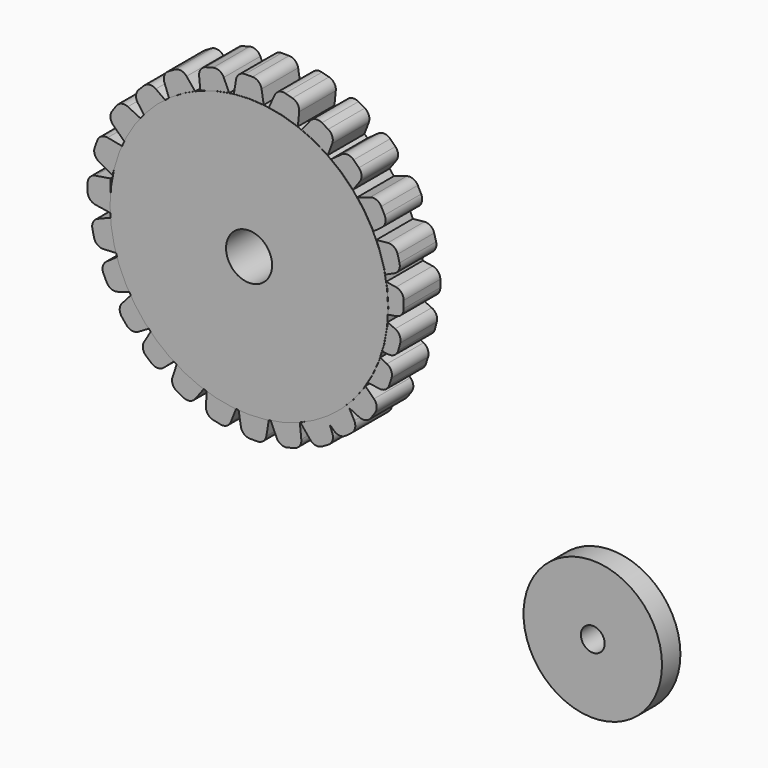
from build123d import *

# Parameters (mm, degrees)
F0_R     = 38.3604267789
F0_R_2   = 6.3570704089
F1_DEPTH = 12.7
F2_R     = 19.1056458935
F2_R_2   = 3.2777236614
F3_DEPTH = 6.35
F5_DEPTH = 12.6238
F6_DEPTH = 12.446


with BuildPart() as f1:
    # F0 (on Front) → F1 (new body)
    with BuildSketch(Plane.XZ):
        with Locations((-43.6920970678, 42.401611805)):
            Circle(F0_R)
        with Locations((-43.6920970678, 42.401611805)):
            Circle(F0_R_2, mode=Mode.SUBTRACT)
    extrude(amount=F1_DEPTH)


with BuildPart() as f3:
    # F2 (on Front) → F3 (new body)
    with BuildSketch(Plane.XZ):
        with Locations((46.0610873997, -23.9215176553)):
            Circle(F2_R)
        with Locations((46.0610873997, -23.9215176553)):
            Circle(F2_R_2, mode=Mode.SUBTRACT)
    extrude(amount=F3_DEPTH)


with BuildPart() as f5:
    # F4 (on Front) → F5 (new body)
    with BuildSketch(Plane.XZ):
        with BuildLine():
            Line((-42.8147938453, 86.3325670362), (-44.8419020928, 86.3325670362))
            ThreePointArc((-44.8419020928, 86.3325670362), (-46.4880102302, 85.726973405), (-47.3491793093, 84.1989670362))
            Line((-47.3491793093, 84.1989670362), (-48.0193479691, 80.0643739951))
            Line((-48.0193479691, 80.0643739951), (-39.6373479691, 80.0643739951))
            Line((-39.6373479691, 80.0643739951), (-40.3075166289, 84.1989670362))
            ThreePointArc((-40.3075166289, 84.1989670362), (-41.1686857079, 85.726973405), (-42.8147938453, 86.3325670362))
        make_face()
    extrude(amount=F5_DEPTH)


with BuildPart() as f5b:
    # F4 (on Front) → F5, piece 2 (new body)
    with BuildSketch(Plane.XZ):
        with BuildLine():
            Line((-31.7910018453, 84.7490246003), (-33.7490380543, 85.2736788212))
            ThreePointArc((-33.7490380543, 85.2736788212), (-35.4957955824, 85.1147644289), (-36.723098186, 83.8617105732))
            Line((-36.723098186, 83.8617105732), (-38.4405428252, 80.0414527862))
            Line((-38.4405428252, 80.0414527862), (-30.3441525493, 77.8720315502))
            Line((-30.3441525493, 77.8720315502), (-29.921374343, 82.0391941623))
            ThreePointArc((-29.921374343, 82.0391941623), (-30.3577226479, 83.7380219355), (-31.7910018453, 84.7490246003))
        make_face()
    extrude(amount=F5_DEPTH)


with BuildPart() as f5c:
    # F4 (on Front) → F5, piece 3 (new body)
    with BuildSketch(Plane.XZ):
        with BuildLine():
            Line((-21.9166371295, 80.3972644907), (-23.6721643681, 81.4108186144))
            ThreePointArc((-23.6721643681, 81.4108186144), (-25.400532648, 81.7094132142), (-26.9103301318, 80.8167054211))
            Line((-26.9103301318, 80.8167054211), (-29.5580097366, 77.5711271432))
            Line((-29.5580097366, 77.5711271432), (-22.2989848021, 73.3801271432))
            Line((-22.2989848021, 73.3801271432), (-20.8120713657, 77.2958740809))
            ThreePointArc((-20.8120713657, 77.2958740809), (-20.7938624807, 79.049750953), (-21.9166371295, 80.3972644907))
        make_face()
    extrude(amount=F5_DEPTH)


with BuildPart() as f5d:
    # F4 (on Front) → F5, piece 4 (new body)
    with BuildSketch(Plane.XZ):
        with BuildLine():
            Line((-13.4721116703, 73.8008318078), (-14.9054936583, 75.2342137958))
            ThreePointArc((-14.9054936583, 75.2342137958), (-16.497687248, 75.9699686591), (-18.1870894087, 75.4984434895))
            Line((-18.1870894087, 75.4984434895), (-21.5845689894, 73.0487255166))
            Line((-21.5845689894, 73.0487255166), (-15.6575999495, 67.1217564767))
            Line((-15.6575999495, 67.1217564767), (-13.2078819766, 70.5192360574))
            ThreePointArc((-13.2078819766, 70.5192360574), (-12.736356807, 72.208638218), (-13.4721116703, 73.8008318078))
        make_face()
    extrude(amount=F5_DEPTH)


with BuildPart() as f5e:
    # F4 (on Front) → F5, piece 5 (new body)
    with BuildSketch(Plane.XZ):
        with BuildLine():
            Line((-2.246415294, 54.3265875846), (-2.771069515, 56.2846237935))
            ThreePointArc((-2.771069515, 56.2846237935), (-3.7820721798, 57.717902991), (-5.4808999529, 58.1542512959))
            Line((-5.4808999529, 58.1542512959), (-9.648062565, 57.7314730896))
            Line((-9.648062565, 57.7314730896), (-7.478641329, 49.6350828137))
            Line((-7.478641329, 49.6350828137), (-3.658383542, 51.3525274529))
            ThreePointArc((-3.658383542, 51.3525274529), (-2.4053296863, 52.5798300565), (-2.246415294, 54.3265875846))
        make_face()
    extrude(amount=F5_DEPTH)


with BuildPart() as f5f:
    # F4 (on Front) → F5, piece 6 (new body)
    with BuildSketch(Plane.XZ):
        with BuildLine():
            Line((-1.0779677422, 43.5992568396), (-1.0779677422, 45.6263650871))
            ThreePointArc((-1.0779677422, 45.6263650871), (-1.6835613733, 47.2724732245), (-3.2115677422, 48.1336423036))
            Line((-3.2115677422, 48.1336423036), (-7.3461607833, 48.8038109634))
            Line((-7.3461607833, 48.8038109634), (-7.3461607833, 40.4218109634))
            Line((-7.3461607833, 40.4218109634), (-3.2115677422, 41.0919796232))
            ThreePointArc((-3.2115677422, 41.0919796232), (-1.6835613733, 41.9531487022), (-1.0779677422, 43.5992568396))
        make_face()
    extrude(amount=F5_DEPTH)


with BuildPart() as f5g:
    # F4 (on Front) → F5, piece 7 (new body)
    with BuildSketch(Plane.XZ):
        with BuildLine():
            Line((-2.5683832903, 32.9878669276), (-2.0437290694, 34.9459031366))
            ThreePointArc((-2.0437290694, 34.9459031366), (-2.2026434617, 36.6926606647), (-3.4556973174, 37.9199632682))
            Line((-3.4556973174, 37.9199632682), (-7.2759551044, 39.6374079074))
            Line((-7.2759551044, 39.6374079074), (-9.4453763404, 31.5410176315))
            Line((-9.4453763404, 31.5410176315), (-5.2782137283, 31.1182394252))
            ThreePointArc((-5.2782137283, 31.1182394252), (-3.5793859551, 31.5545877301), (-2.5683832903, 32.9878669276))
        make_face()
    extrude(amount=F5_DEPTH)


with BuildPart() as f5h:
    # F4 (on Front) → F5, piece 8 (new body)
    with BuildSketch(Plane.XZ):
        with BuildLine():
            Line((-6.365112743, 64.6028396025), (-7.2970805393, 66.4030073375))
            ThreePointArc((-7.2970805393, 66.4030073375), (-8.5916783446, 67.5864059045), (-10.3445445851, 67.6486601341))
            Line((-10.3445445851, 67.6486601341), (-14.3243698403, 66.3429126143))
            Line((-14.3243698403, 66.3429126143), (-10.4707255776, 58.8993012666))
            Line((-10.4707255776, 58.8993012666), (-7.1071235652, 61.3953315449))
            ThreePointArc((-7.1071235652, 61.3953315449), (-6.1461063538, 62.8625948359), (-6.365112743, 64.6028396025))
        make_face()
    extrude(amount=F5_DEPTH)


with BuildPart() as f5i:
    # F4 (on Front) → F5, piece 9 (new body)
    with BuildSketch(Plane.XZ):
        with BuildLine():
            Line((-5.0729014467, 23.7036582317), (-4.4519188258, 25.6333080527))
            ThreePointArc((-4.4519188258, 25.6333080527), (-4.5241296199, 27.3857923599), (-5.7148633597, 28.6736467023))
            Line((-5.7148633597, 28.6736467023), (-9.4453763404, 30.5781830102))
            Line((-9.4453763404, 30.5781830102), (-12.0131111099, 22.5991691517))
            Line((-12.0131111099, 22.5991691517), (-7.8720003317, 21.9705300101))
            ThreePointArc((-7.8720003317, 21.9705300101), (-6.1536469816, 22.3222080028), (-5.0729014467, 23.7036582317))
        make_face()
    extrude(amount=F5_DEPTH)


with BuildPart() as f5j:
    # F4 (on Front) → F5, piece 10 (new body)
    with BuildSketch(Plane.XZ):
        with BuildLine():
            Line((-53.7118464962, 85.0227049006), (-55.6698827052, 84.4980506797))
            ThreePointArc((-55.6698827052, 84.4980506797), (-57.1031619027, 83.4870480149), (-57.5395102076, 81.7882202417))
            Line((-57.5395102076, 81.7882202417), (-57.1167320013, 77.6210576296))
            Line((-57.1167320013, 77.6210576296), (-49.0203417253, 79.7904788656))
            Line((-49.0203417253, 79.7904788656), (-50.7377863646, 83.6107366526))
            ThreePointArc((-50.7377863646, 83.6107366526), (-51.9650889681, 84.8637905083), (-53.7118464962, 85.0227049006))
        make_face()
    extrude(amount=F5_DEPTH)


with BuildPart() as f5k:
    # F4 (on Front) → F5, piece 11 (new body)
    with BuildSketch(Plane.XZ):
        with BuildLine():
            Line((-64.2440390476, 81.147411194), (-65.9995662862, 80.1338570702))
            ThreePointArc((-65.9995662862, 80.1338570702), (-67.122340935, 78.7863435326), (-67.1041320499, 77.0324666605))
            Line((-67.1041320499, 77.0324666605), (-65.6172186136, 73.1167197227))
            Line((-65.6172186136, 73.1167197227), (-58.3581936791, 77.3077197227))
            Line((-58.3581936791, 77.3077197227), (-61.0058732838, 80.5532980007))
            ThreePointArc((-61.0058732838, 80.5532980007), (-62.5156707677, 81.4460057938), (-64.2440390476, 81.147411194))
        make_face()
    extrude(amount=F5_DEPTH)


with BuildPart() as f5l:
    # F4 (on Front) → F5, piece 12 (new body)
    with BuildSketch(Plane.XZ):
        with BuildLine():
            Line((-72.763130051, 74.4460939606), (-74.196512039, 73.0127119726))
            ThreePointArc((-74.196512039, 73.0127119726), (-74.9322669023, 71.4205183828), (-74.4607417327, 69.7311162222))
            Line((-74.4607417327, 69.7311162222), (-72.0110237598, 66.3336366415))
            Line((-72.0110237598, 66.3336366415), (-66.0840547199, 72.2606056814))
            Line((-66.0840547199, 72.2606056814), (-69.4815343006, 74.7103236543))
            ThreePointArc((-69.4815343006, 74.7103236543), (-71.1709364613, 75.1818488239), (-72.763130051, 74.4460939606))
        make_face()
    extrude(amount=F5_DEPTH)


with BuildPart() as f5m:
    # F4 (on Front) → F5, piece 13 (new body)
    with BuildSketch(Plane.XZ):
        with BuildLine():
            Line((-80.3923138756, 67.0647296468), (-81.5550154003, 65.4042197818))
            ThreePointArc((-81.5550154003, 65.4042197818), (-82.0031109787, 63.7084526991), (-81.2453877294, 62.1265958398))
            Line((-81.2453877294, 62.1265958398), (-78.2429203391, 59.2061206698))
            Line((-78.2429203391, 59.2061206698), (-73.4352026496, 66.0722531051))
            Line((-73.4352026496, 66.0722531051), (-77.2064559431, 67.8947882196))
            ThreePointArc((-77.2064559431, 67.8947882196), (-78.9520717754, 68.0657882559), (-80.3923138756, 67.0647296468))
        make_face()
    extrude(amount=F5_DEPTH)


with BuildPart() as f5n:
    # F4 (on Front) → F5, piece 14 (new body)
    with BuildSketch(Plane.XZ):
        with BuildLine():
            Line((-85.6444235743, 56.9500330974), (-86.3377354277, 55.0451744356))
            ThreePointArc((-86.3377354277, 55.0451744356), (-86.3316657024, 53.2912135454), (-85.1903465649, 51.9593703593))
            Line((-85.1903465649, 51.9593703593), (-81.5343111753, 49.9155037105))
            Line((-81.5343111753, 49.9155037105), (-78.667498334, 57.7920072579))
            Line((-78.667498334, 57.7920072579), (-82.7819560857, 58.5763688181))
            ThreePointArc((-82.7819560857, 58.5763688181), (-84.5123495669, 58.2897435466), (-85.6444235743, 56.9500330974))
        make_face()
    extrude(amount=F5_DEPTH)


with BuildPart() as f5o:
    # F4 (on Front) → F5, piece 15 (new body)
    with BuildSketch(Plane.XZ):
        with BuildLine():
            Line((-88.3078323948, 45.7280235719), (-88.3078323948, 43.7009153243))
            ThreePointArc((-88.3078323948, 43.7009153243), (-87.7022387637, 42.0548071869), (-86.1742323948, 41.1936381079))
            Line((-86.1742323948, 41.1936381079), (-82.0396393538, 40.5234694481))
            Line((-82.0396393538, 40.5234694481), (-82.0396393538, 48.9054694481))
            Line((-82.0396393538, 48.9054694481), (-86.1742323948, 48.2353007883))
            ThreePointArc((-86.1742323948, 48.2353007883), (-87.7022387637, 47.3741317093), (-88.3078323948, 45.7280235719))
        make_face()
    extrude(amount=F5_DEPTH)


with BuildPart() as f5p:
    # F4 (on Front) → F5, piece 16 (new body)
    with BuildSketch(Plane.XZ):
        with BuildLine():
            Line((-86.9807239538, 35.076748043), (-86.5403519904, 33.0980514061))
            ThreePointArc((-86.5403519904, 33.0980514061), (-85.5916182678, 31.6228158419), (-83.9130222749, 31.1141596333))
            Line((-83.9130222749, 31.1141596333), (-79.7315835953, 31.3582010567))
            Line((-79.7315835953, 31.3582010567), (-81.5525015468, 39.5400212585))
            Line((-81.5525015468, 39.5400212585), (-85.4427633848, 37.9876525911))
            ThreePointArc((-85.4427633848, 37.9876525911), (-86.7471961147, 36.8151037012), (-86.9807239538, 35.076748043))
        make_face()
    extrude(amount=F5_DEPTH)


with BuildPart() as f5q:
    # F4 (on Front) → F5, piece 17 (new body)
    with BuildSketch(Plane.XZ):
        with BuildLine():
            Line((-83.9287971245, 25.1794136784), (-83.0475490535, 23.3538809659))
            ThreePointArc((-83.0475490535, 23.3538809659), (-81.786560348, 22.134732439), (-80.0361214134, 22.023470665))
            Line((-80.0361214134, 22.023470665), (-76.0213285685, 23.2173819095))
            Line((-76.0213285685, 23.2173819095), (-79.6652490845, 30.7658762807))
            Line((-79.6652490845, 30.7658762807), (-83.0973549028, 28.3649107875))
            ThreePointArc((-83.0973549028, 28.3649107875), (-84.0990389639, 26.9251036172), (-83.9287971245, 25.1794136784))
        make_face()
    extrude(amount=F5_DEPTH)


with BuildPart() as f5r:
    # F4 (on Front) → F5, piece 18 (new body)
    with BuildSketch(Plane.XZ):
        with BuildLine():
            Line((-78.8736637693, 16.3107349421), (-77.5892954557, 14.7424346257))
            ThreePointArc((-77.5892954557, 14.7424346257), (-76.0778015237, 13.8526022036), (-74.3500047207, 14.1544860447))
            Line((-74.3500047207, 14.1544860447), (-70.7266032696, 16.2556637079))
            Line((-70.7266032696, 16.2556637079), (-76.0374075731, 22.7405138718))
            Line((-76.0374075731, 22.7405138718), (-78.811576239, 19.602365714))
            ThreePointArc((-78.811576239, 19.602365714), (-79.4481059337, 17.9679711491), (-78.8736637693, 16.3107349421))
        make_face()
    extrude(amount=F5_DEPTH)


with BuildPart() as f5s:
    # F4 (on Front) → F5, piece 19 (new body)
    with BuildSketch(Plane.XZ):
        with BuildLine():
            Line((-72.1662954861, 8.9880850749), (-70.6134404774, 7.6850850099))
            ThreePointArc((-70.6134404774, 7.6850850099), (-68.9631804034, 7.0908987308), (-67.3213030544, 7.7078707049))
            Line((-67.3213030544, 7.7078707049), (-64.1502588987, 10.4443766177))
            Line((-64.1502588987, 10.4443766177), (-70.571243421, 15.8322223621))
            Line((-70.571243421, 15.8322223621), (-72.7155296211, 12.2341642275))
            ThreePointArc((-72.7155296211, 12.2341642275), (-73.0380193949, 10.5100946257), (-72.1662954861, 8.9880850749))
        make_face()
    extrude(amount=F5_DEPTH)


with BuildPart() as f5t:
    # F4 (on Front) → F5, piece 20 (new body)
    with BuildSketch(Plane.XZ):
        with BuildLine():
            Line((-63.6316929505, 3.1580879999), (-61.8321230713, 2.2249663052))
            ThreePointArc((-61.8321230713, 2.2249663052), (-60.0920190677, 2.0048442877), (-58.6241399687, 2.9649206371))
            Line((-58.6241399687, 2.9649206371), (-56.1259537935, 6.3269217499))
            Line((-56.1259537935, 6.3269217499), (-63.567093035, 10.18533733))
            Line((-63.567093035, 10.18533733), (-64.8753917578, 6.2063500091))
            ThreePointArc((-64.8753917578, 6.2063500091), (-64.8142613059, 4.4534442176), (-63.6316929505, 3.1580879999))
        make_face()
    extrude(amount=F5_DEPTH)


with BuildPart() as f5u:
    # F4 (on Front) → F5, piece 21 (new body)
    with BuildSketch(Plane.XZ):
        with BuildLine():
            Line((-10.1534633559, 14.0808046451), (-8.9907618311, 15.74131451))
            ThreePointArc((-8.9907618311, 15.74131451), (-8.5426662528, 17.4370815927), (-9.3003895021, 19.0189384521))
            Line((-9.3003895021, 19.0189384521), (-12.3028568923, 21.939413622))
            Line((-12.3028568923, 21.939413622), (-16.6904014555, 15.6733505997))
            Line((-16.6904014555, 15.6733505997), (-16.1205212456, 14.5948177079))
            Line((-16.1205212456, 14.5948177079), (-13.3393212883, 13.2507460722))
            ThreePointArc((-13.3393212883, 13.2507460722), (-11.5937054561, 13.079746036), (-10.1534633559, 14.0808046451))
        make_face()
        with BuildLine():
            Line((-14.7336001464, 11.9699853349), (-16.1205212456, 14.5948177079))
            Line((-16.1205212456, 14.5948177079), (-17.1105745818, 15.0732811868))
            Line((-17.1105745818, 15.0732811868), (-16.6904014555, 15.6733505997))
            Line((-16.6904014555, 15.6733505997), (-23.3794384988, 10.6221420875))
            Line((-23.3794384988, 10.6221420875), (-23.0821045992, 10.3376567079))
            Line((-23.0821045992, 10.3376567079), (-22.2603753209, 10.8120823279))
            Line((-22.2603753209, 10.8120823279), (-21.5085075698, 8.8320586276))
            Line((-21.5085075698, 8.8320586276), (-20.3530158605, 7.7264985213))
            ThreePointArc((-20.3530158605, 7.7264985213), (-18.7449663917, 7.0260753978), (-17.0663863377, 7.5347842028))
            Line((-17.0663863377, 7.5347842028), (-15.4487053357, 8.756371704))
            ThreePointArc((-15.4487053357, 8.756371704), (-14.5000178383, 10.2316369948), (-14.7336001464, 11.9699853349))
        make_face()
        Polygon((-17.1105745818, 15.0732811868), (-16.1205212456, 14.5948177079), (-16.6904014555, 15.6733505997), align=None)
        with BuildLine():
            Line((-21.5085075698, 8.8320586276), (-23.0821045992, 10.3376567079))
            Line((-23.0821045992, 10.3376567079), (-29.5194002554, 6.6210823279))
            Line((-29.5194002554, 6.6210823279), (-26.8717206507, 3.3755040499))
            ThreePointArc((-26.8717206507, 3.3755040499), (-25.3619231669, 2.4827962568), (-23.6335548869, 2.7813908566))
            Line((-23.6335548869, 2.7813908566), (-21.8780276483, 3.7949449804))
            ThreePointArc((-21.8780276483, 3.7949449804), (-20.7552529995, 5.142458518), (-20.7734618846, 6.8963353901))
            Line((-20.7734618846, 6.8963353901), (-21.5085075698, 8.8320586276))
        make_face()
        Polygon((-22.2603753209, 10.8120823279), (-23.0821045992, 10.3376567079), (-21.5085075698, 8.8320586276), align=None)
    extrude(amount=F5_DEPTH)


with BuildPart() as f5v:
    # F4 (on Front) → F5, piece 22 (new body)
    with BuildSketch(Plane.XZ):
        with BuildLine():
            Line((-53.6458090629, -0.5320512421), (-51.6642128784, -0.9591863598))
            ThreePointArc((-51.6642128784, -0.9591863598), (-49.9274571252, -0.7140433408), (-48.7636541836, 0.5981983897))
            Line((-48.7636541836, 0.5981983897), (-47.2373254597, 4.4987504371))
            Line((-47.2373254597, 4.4987504371), (-55.4311351582, 6.2649346362))
            Line((-55.4311351582, 6.2649346362), (-55.6472194382, 2.0819580368))
            ThreePointArc((-55.6472194382, 2.0819580368), (-55.1273536726, 0.4067997661), (-53.6458090629, -0.5320512421))
        make_face()
    extrude(amount=F5_DEPTH)


with BuildPart() as f5w:
    # F4 (on Front) → F5, piece 23 (new body)
    with BuildSketch(Plane.XZ):
        with BuildLine():
            Line((-43.5072513651, -1.7864071104), (-41.4801431175, -1.7864071104))
            ThreePointArc((-41.4801431175, -1.7864071104), (-39.8340349801, -1.1808134793), (-38.9728659011, 0.3471928896))
            Line((-38.9728659011, 0.3471928896), (-38.3026972413, 4.4817859307))
            Line((-38.3026972413, 4.4817859307), (-46.6846972413, 4.4817859307))
            Line((-46.6846972413, 4.4817859307), (-46.0145285815, 0.3471928896))
            ThreePointArc((-46.0145285815, 0.3471928896), (-45.1533595025, -1.1808134793), (-43.5072513651, -1.7864071104))
        make_face()
    extrude(amount=F5_DEPTH)


with BuildPart() as f5x:
    # F4 (on Front) → F5, piece 24 (new body)
    with BuildSketch(Plane.XZ):
        with BuildLine():
            Line((-33.168298827, -0.5820079161), (-31.2102626181, -0.0573536951))
            ThreePointArc((-31.2102626181, -0.0573536951), (-29.7769834206, 0.9536489697), (-29.3406351157, 2.6524767428))
            Line((-29.3406351157, 2.6524767428), (-29.763413322, 6.8196393549))
            Line((-29.763413322, 6.8196393549), (-37.8598035979, 4.6502181189))
            Line((-37.8598035979, 4.6502181189), (-36.1423589587, 0.8299603319))
            ThreePointArc((-36.1423589587, 0.8299603319), (-34.9150563551, -0.4230935238), (-33.168298827, -0.5820079161))
        make_face()
    extrude(amount=F5_DEPTH)


with BuildPart() as f6:
    # F4 (on Front) → F6 (new body)
    with BuildSketch(Plane.XZ):
        with BuildLine():
            Line((-42.8147938453, 86.3325670362), (-44.8419020928, 86.3325670362))
            ThreePointArc((-44.8419020928, 86.3325670362), (-46.4880102302, 85.726973405), (-47.3491793093, 84.1989670362))
            Line((-47.3491793093, 84.1989670362), (-48.0193479691, 80.0643739951))
            Line((-48.0193479691, 80.0643739951), (-39.6373479691, 80.0643739951))
            Line((-39.6373479691, 80.0643739951), (-40.3075166289, 84.1989670362))
            ThreePointArc((-40.3075166289, 84.1989670362), (-41.1686857079, 85.726973405), (-42.8147938453, 86.3325670362))
        make_face()
    extrude(amount=F6_DEPTH)


with BuildPart() as f6b:
    # F4 (on Front) → F6, piece 2 (new body)
    with BuildSketch(Plane.XZ):
        with BuildLine():
            Line((-31.7910018453, 84.7490246003), (-33.7490380543, 85.2736788212))
            ThreePointArc((-33.7490380543, 85.2736788212), (-35.4957955824, 85.1147644289), (-36.723098186, 83.8617105732))
            Line((-36.723098186, 83.8617105732), (-38.4405428252, 80.0414527862))
            Line((-38.4405428252, 80.0414527862), (-30.3441525493, 77.8720315502))
            Line((-30.3441525493, 77.8720315502), (-29.921374343, 82.0391941623))
            ThreePointArc((-29.921374343, 82.0391941623), (-30.3577226479, 83.7380219355), (-31.7910018453, 84.7490246003))
        make_face()
    extrude(amount=F6_DEPTH)


with BuildPart() as f6c:
    # F4 (on Front) → F6, piece 3 (new body)
    with BuildSketch(Plane.XZ):
        with BuildLine():
            Line((-21.9166371295, 80.3972644907), (-23.6721643681, 81.4108186144))
            ThreePointArc((-23.6721643681, 81.4108186144), (-25.400532648, 81.7094132142), (-26.9103301318, 80.8167054211))
            Line((-26.9103301318, 80.8167054211), (-29.5580097366, 77.5711271432))
            Line((-29.5580097366, 77.5711271432), (-22.2989848021, 73.3801271432))
            Line((-22.2989848021, 73.3801271432), (-20.8120713657, 77.2958740809))
            ThreePointArc((-20.8120713657, 77.2958740809), (-20.7938624807, 79.049750953), (-21.9166371295, 80.3972644907))
        make_face()
    extrude(amount=F6_DEPTH)


with BuildPart() as f6d:
    # F4 (on Front) → F6, piece 4 (new body)
    with BuildSketch(Plane.XZ):
        with BuildLine():
            Line((-13.4721116703, 73.8008318078), (-14.9054936583, 75.2342137958))
            ThreePointArc((-14.9054936583, 75.2342137958), (-16.497687248, 75.9699686591), (-18.1870894087, 75.4984434895))
            Line((-18.1870894087, 75.4984434895), (-21.5845689894, 73.0487255166))
            Line((-21.5845689894, 73.0487255166), (-15.6575999495, 67.1217564767))
            Line((-15.6575999495, 67.1217564767), (-13.2078819766, 70.5192360574))
            ThreePointArc((-13.2078819766, 70.5192360574), (-12.736356807, 72.208638218), (-13.4721116703, 73.8008318078))
        make_face()
    extrude(amount=F6_DEPTH)


with BuildPart() as f6e:
    # F4 (on Front) → F6, piece 5 (new body)
    with BuildSketch(Plane.XZ):
        with BuildLine():
            Line((-2.246415294, 54.3265875846), (-2.771069515, 56.2846237935))
            ThreePointArc((-2.771069515, 56.2846237935), (-3.7820721798, 57.717902991), (-5.4808999529, 58.1542512959))
            Line((-5.4808999529, 58.1542512959), (-9.648062565, 57.7314730896))
            Line((-9.648062565, 57.7314730896), (-7.478641329, 49.6350828137))
            Line((-7.478641329, 49.6350828137), (-3.658383542, 51.3525274529))
            ThreePointArc((-3.658383542, 51.3525274529), (-2.4053296863, 52.5798300565), (-2.246415294, 54.3265875846))
        make_face()
    extrude(amount=F6_DEPTH)


with BuildPart() as f6f:
    # F4 (on Front) → F6, piece 6 (new body)
    with BuildSketch(Plane.XZ):
        with BuildLine():
            Line((-1.0779677422, 43.5992568396), (-1.0779677422, 45.6263650871))
            ThreePointArc((-1.0779677422, 45.6263650871), (-1.6835613733, 47.2724732245), (-3.2115677422, 48.1336423036))
            Line((-3.2115677422, 48.1336423036), (-7.3461607833, 48.8038109634))
            Line((-7.3461607833, 48.8038109634), (-7.3461607833, 40.4218109634))
            Line((-7.3461607833, 40.4218109634), (-3.2115677422, 41.0919796232))
            ThreePointArc((-3.2115677422, 41.0919796232), (-1.6835613733, 41.9531487022), (-1.0779677422, 43.5992568396))
        make_face()
    extrude(amount=F6_DEPTH)


with BuildPart() as f6g:
    # F4 (on Front) → F6, piece 7 (new body)
    with BuildSketch(Plane.XZ):
        with BuildLine():
            Line((-2.5683832903, 32.9878669276), (-2.0437290694, 34.9459031366))
            ThreePointArc((-2.0437290694, 34.9459031366), (-2.2026434617, 36.6926606647), (-3.4556973174, 37.9199632682))
            Line((-3.4556973174, 37.9199632682), (-7.2759551044, 39.6374079074))
            Line((-7.2759551044, 39.6374079074), (-9.4453763404, 31.5410176315))
            Line((-9.4453763404, 31.5410176315), (-5.2782137283, 31.1182394252))
            ThreePointArc((-5.2782137283, 31.1182394252), (-3.5793859551, 31.5545877301), (-2.5683832903, 32.9878669276))
        make_face()
    extrude(amount=F6_DEPTH)


with BuildPart() as f6h:
    # F4 (on Front) → F6, piece 8 (new body)
    with BuildSketch(Plane.XZ):
        with BuildLine():
            Line((-6.365112743, 64.6028396025), (-7.2970805393, 66.4030073375))
            ThreePointArc((-7.2970805393, 66.4030073375), (-8.5916783446, 67.5864059045), (-10.3445445851, 67.6486601341))
            Line((-10.3445445851, 67.6486601341), (-14.3243698403, 66.3429126143))
            Line((-14.3243698403, 66.3429126143), (-10.4707255776, 58.8993012666))
            Line((-10.4707255776, 58.8993012666), (-7.1071235652, 61.3953315449))
            ThreePointArc((-7.1071235652, 61.3953315449), (-6.1461063538, 62.8625948359), (-6.365112743, 64.6028396025))
        make_face()
    extrude(amount=F6_DEPTH)


with BuildPart() as f6i:
    # F4 (on Front) → F6, piece 9 (new body)
    with BuildSketch(Plane.XZ):
        with BuildLine():
            Line((-5.0729014467, 23.7036582317), (-4.4519188258, 25.6333080527))
            ThreePointArc((-4.4519188258, 25.6333080527), (-4.5241296199, 27.3857923599), (-5.7148633597, 28.6736467023))
            Line((-5.7148633597, 28.6736467023), (-9.4453763404, 30.5781830102))
            Line((-9.4453763404, 30.5781830102), (-12.0131111099, 22.5991691517))
            Line((-12.0131111099, 22.5991691517), (-7.8720003317, 21.9705300101))
            ThreePointArc((-7.8720003317, 21.9705300101), (-6.1536469816, 22.3222080028), (-5.0729014467, 23.7036582317))
        make_face()
    extrude(amount=F6_DEPTH)


with BuildPart() as f6j:
    # F4 (on Front) → F6, piece 10 (new body)
    with BuildSketch(Plane.XZ):
        with BuildLine():
            Line((-53.7118464962, 85.0227049006), (-55.6698827052, 84.4980506797))
            ThreePointArc((-55.6698827052, 84.4980506797), (-57.1031619027, 83.4870480149), (-57.5395102076, 81.7882202417))
            Line((-57.5395102076, 81.7882202417), (-57.1167320013, 77.6210576296))
            Line((-57.1167320013, 77.6210576296), (-49.0203417253, 79.7904788656))
            Line((-49.0203417253, 79.7904788656), (-50.7377863646, 83.6107366526))
            ThreePointArc((-50.7377863646, 83.6107366526), (-51.9650889681, 84.8637905083), (-53.7118464962, 85.0227049006))
        make_face()
    extrude(amount=F6_DEPTH)


with BuildPart() as f6k:
    # F4 (on Front) → F6, piece 11 (new body)
    with BuildSketch(Plane.XZ):
        with BuildLine():
            Line((-64.2440390476, 81.147411194), (-65.9995662862, 80.1338570702))
            ThreePointArc((-65.9995662862, 80.1338570702), (-67.122340935, 78.7863435326), (-67.1041320499, 77.0324666605))
            Line((-67.1041320499, 77.0324666605), (-65.6172186136, 73.1167197227))
            Line((-65.6172186136, 73.1167197227), (-58.3581936791, 77.3077197227))
            Line((-58.3581936791, 77.3077197227), (-61.0058732838, 80.5532980007))
            ThreePointArc((-61.0058732838, 80.5532980007), (-62.5156707677, 81.4460057938), (-64.2440390476, 81.147411194))
        make_face()
    extrude(amount=F6_DEPTH)


with BuildPart() as f6l:
    # F4 (on Front) → F6, piece 12 (new body)
    with BuildSketch(Plane.XZ):
        with BuildLine():
            Line((-72.763130051, 74.4460939606), (-74.196512039, 73.0127119726))
            ThreePointArc((-74.196512039, 73.0127119726), (-74.9322669023, 71.4205183828), (-74.4607417327, 69.7311162222))
            Line((-74.4607417327, 69.7311162222), (-72.0110237598, 66.3336366415))
            Line((-72.0110237598, 66.3336366415), (-66.0840547199, 72.2606056814))
            Line((-66.0840547199, 72.2606056814), (-69.4815343006, 74.7103236543))
            ThreePointArc((-69.4815343006, 74.7103236543), (-71.1709364613, 75.1818488239), (-72.763130051, 74.4460939606))
        make_face()
    extrude(amount=F6_DEPTH)


with BuildPart() as f6m:
    # F4 (on Front) → F6, piece 13 (new body)
    with BuildSketch(Plane.XZ):
        with BuildLine():
            Line((-80.3923138756, 67.0647296468), (-81.5550154003, 65.4042197818))
            ThreePointArc((-81.5550154003, 65.4042197818), (-82.0031109787, 63.7084526991), (-81.2453877294, 62.1265958398))
            Line((-81.2453877294, 62.1265958398), (-78.2429203391, 59.2061206698))
            Line((-78.2429203391, 59.2061206698), (-73.4352026496, 66.0722531051))
            Line((-73.4352026496, 66.0722531051), (-77.2064559431, 67.8947882196))
            ThreePointArc((-77.2064559431, 67.8947882196), (-78.9520717754, 68.0657882559), (-80.3923138756, 67.0647296468))
        make_face()
    extrude(amount=F6_DEPTH)


with BuildPart() as f6n:
    # F4 (on Front) → F6, piece 14 (new body)
    with BuildSketch(Plane.XZ):
        with BuildLine():
            Line((-85.6444235743, 56.9500330974), (-86.3377354277, 55.0451744356))
            ThreePointArc((-86.3377354277, 55.0451744356), (-86.3316657024, 53.2912135454), (-85.1903465649, 51.9593703593))
            Line((-85.1903465649, 51.9593703593), (-81.5343111753, 49.9155037105))
            Line((-81.5343111753, 49.9155037105), (-78.667498334, 57.7920072579))
            Line((-78.667498334, 57.7920072579), (-82.7819560857, 58.5763688181))
            ThreePointArc((-82.7819560857, 58.5763688181), (-84.5123495669, 58.2897435466), (-85.6444235743, 56.9500330974))
        make_face()
    extrude(amount=F6_DEPTH)


with BuildPart() as f6o:
    # F4 (on Front) → F6, piece 15 (new body)
    with BuildSketch(Plane.XZ):
        with BuildLine():
            Line((-88.3078323948, 45.7280235719), (-88.3078323948, 43.7009153243))
            ThreePointArc((-88.3078323948, 43.7009153243), (-87.7022387637, 42.0548071869), (-86.1742323948, 41.1936381079))
            Line((-86.1742323948, 41.1936381079), (-82.0396393538, 40.5234694481))
            Line((-82.0396393538, 40.5234694481), (-82.0396393538, 48.9054694481))
            Line((-82.0396393538, 48.9054694481), (-86.1742323948, 48.2353007883))
            ThreePointArc((-86.1742323948, 48.2353007883), (-87.7022387637, 47.3741317093), (-88.3078323948, 45.7280235719))
        make_face()
    extrude(amount=F6_DEPTH)


with BuildPart() as f6p:
    # F4 (on Front) → F6, piece 16 (new body)
    with BuildSketch(Plane.XZ):
        with BuildLine():
            Line((-86.9807239538, 35.076748043), (-86.5403519904, 33.0980514061))
            ThreePointArc((-86.5403519904, 33.0980514061), (-85.5916182678, 31.6228158419), (-83.9130222749, 31.1141596333))
            Line((-83.9130222749, 31.1141596333), (-79.7315835953, 31.3582010567))
            Line((-79.7315835953, 31.3582010567), (-81.5525015468, 39.5400212585))
            Line((-81.5525015468, 39.5400212585), (-85.4427633848, 37.9876525911))
            ThreePointArc((-85.4427633848, 37.9876525911), (-86.7471961147, 36.8151037012), (-86.9807239538, 35.076748043))
        make_face()
    extrude(amount=F6_DEPTH)


with BuildPart() as f6q:
    # F4 (on Front) → F6, piece 17 (new body)
    with BuildSketch(Plane.XZ):
        with BuildLine():
            Line((-83.9287971245, 25.1794136784), (-83.0475490535, 23.3538809659))
            ThreePointArc((-83.0475490535, 23.3538809659), (-81.786560348, 22.134732439), (-80.0361214134, 22.023470665))
            Line((-80.0361214134, 22.023470665), (-76.0213285685, 23.2173819095))
            Line((-76.0213285685, 23.2173819095), (-79.6652490845, 30.7658762807))
            Line((-79.6652490845, 30.7658762807), (-83.0973549028, 28.3649107875))
            ThreePointArc((-83.0973549028, 28.3649107875), (-84.0990389639, 26.9251036172), (-83.9287971245, 25.1794136784))
        make_face()
    extrude(amount=F6_DEPTH)


with BuildPart() as f6r:
    # F4 (on Front) → F6, piece 18 (new body)
    with BuildSketch(Plane.XZ):
        with BuildLine():
            Line((-78.8736637693, 16.3107349421), (-77.5892954557, 14.7424346257))
            ThreePointArc((-77.5892954557, 14.7424346257), (-76.0778015237, 13.8526022036), (-74.3500047207, 14.1544860447))
            Line((-74.3500047207, 14.1544860447), (-70.7266032696, 16.2556637079))
            Line((-70.7266032696, 16.2556637079), (-76.0374075731, 22.7405138718))
            Line((-76.0374075731, 22.7405138718), (-78.811576239, 19.602365714))
            ThreePointArc((-78.811576239, 19.602365714), (-79.4481059337, 17.9679711491), (-78.8736637693, 16.3107349421))
        make_face()
    extrude(amount=F6_DEPTH)


with BuildPart() as f6s:
    # F4 (on Front) → F6, piece 19 (new body)
    with BuildSketch(Plane.XZ):
        with BuildLine():
            Line((-72.1662954861, 8.9880850749), (-70.6134404774, 7.6850850099))
            ThreePointArc((-70.6134404774, 7.6850850099), (-68.9631804034, 7.0908987308), (-67.3213030544, 7.7078707049))
            Line((-67.3213030544, 7.7078707049), (-64.1502588987, 10.4443766177))
            Line((-64.1502588987, 10.4443766177), (-70.571243421, 15.8322223621))
            Line((-70.571243421, 15.8322223621), (-72.7155296211, 12.2341642275))
            ThreePointArc((-72.7155296211, 12.2341642275), (-73.0380193949, 10.5100946257), (-72.1662954861, 8.9880850749))
        make_face()
    extrude(amount=F6_DEPTH)


with BuildPart() as f6t:
    # F4 (on Front) → F6, piece 20 (new body)
    with BuildSketch(Plane.XZ):
        with BuildLine():
            Line((-63.6316929505, 3.1580879999), (-61.8321230713, 2.2249663052))
            ThreePointArc((-61.8321230713, 2.2249663052), (-60.0920190677, 2.0048442877), (-58.6241399687, 2.9649206371))
            Line((-58.6241399687, 2.9649206371), (-56.1259537935, 6.3269217499))
            Line((-56.1259537935, 6.3269217499), (-63.567093035, 10.18533733))
            Line((-63.567093035, 10.18533733), (-64.8753917578, 6.2063500091))
            ThreePointArc((-64.8753917578, 6.2063500091), (-64.8142613059, 4.4534442176), (-63.6316929505, 3.1580879999))
        make_face()
    extrude(amount=F6_DEPTH)


with BuildPart() as f6u:
    # F4 (on Front) → F6, piece 21 (new body)
    with BuildSketch(Plane.XZ):
        with BuildLine():
            Line((-10.1534633559, 14.0808046451), (-8.9907618311, 15.74131451))
            ThreePointArc((-8.9907618311, 15.74131451), (-8.5426662528, 17.4370815927), (-9.3003895021, 19.0189384521))
            Line((-9.3003895021, 19.0189384521), (-12.3028568923, 21.939413622))
            Line((-12.3028568923, 21.939413622), (-16.6904014555, 15.6733505997))
            Line((-16.6904014555, 15.6733505997), (-16.1205212456, 14.5948177079))
            Line((-16.1205212456, 14.5948177079), (-13.3393212883, 13.2507460722))
            ThreePointArc((-13.3393212883, 13.2507460722), (-11.5937054561, 13.079746036), (-10.1534633559, 14.0808046451))
        make_face()
        with BuildLine():
            Line((-14.7336001464, 11.9699853349), (-16.1205212456, 14.5948177079))
            Line((-16.1205212456, 14.5948177079), (-17.1105745818, 15.0732811868))
            Line((-17.1105745818, 15.0732811868), (-16.6904014555, 15.6733505997))
            Line((-16.6904014555, 15.6733505997), (-23.3794384988, 10.6221420875))
            Line((-23.3794384988, 10.6221420875), (-23.0821045992, 10.3376567079))
            Line((-23.0821045992, 10.3376567079), (-22.2603753209, 10.8120823279))
            Line((-22.2603753209, 10.8120823279), (-21.5085075698, 8.8320586276))
            Line((-21.5085075698, 8.8320586276), (-20.3530158605, 7.7264985213))
            ThreePointArc((-20.3530158605, 7.7264985213), (-18.7449663917, 7.0260753978), (-17.0663863377, 7.5347842028))
            Line((-17.0663863377, 7.5347842028), (-15.4487053357, 8.756371704))
            ThreePointArc((-15.4487053357, 8.756371704), (-14.5000178383, 10.2316369948), (-14.7336001464, 11.9699853349))
        make_face()
        Polygon((-17.1105745818, 15.0732811868), (-16.1205212456, 14.5948177079), (-16.6904014555, 15.6733505997), align=None)
        with BuildLine():
            Line((-21.5085075698, 8.8320586276), (-23.0821045992, 10.3376567079))
            Line((-23.0821045992, 10.3376567079), (-29.5194002554, 6.6210823279))
            Line((-29.5194002554, 6.6210823279), (-26.8717206507, 3.3755040499))
            ThreePointArc((-26.8717206507, 3.3755040499), (-25.3619231669, 2.4827962568), (-23.6335548869, 2.7813908566))
            Line((-23.6335548869, 2.7813908566), (-21.8780276483, 3.7949449804))
            ThreePointArc((-21.8780276483, 3.7949449804), (-20.7552529995, 5.142458518), (-20.7734618846, 6.8963353901))
            Line((-20.7734618846, 6.8963353901), (-21.5085075698, 8.8320586276))
        make_face()
        Polygon((-22.2603753209, 10.8120823279), (-23.0821045992, 10.3376567079), (-21.5085075698, 8.8320586276), align=None)
    extrude(amount=F6_DEPTH)


with BuildPart() as f6v:
    # F4 (on Front) → F6, piece 22 (new body)
    with BuildSketch(Plane.XZ):
        with BuildLine():
            Line((-53.6458090629, -0.5320512421), (-51.6642128784, -0.9591863598))
            ThreePointArc((-51.6642128784, -0.9591863598), (-49.9274571252, -0.7140433408), (-48.7636541836, 0.5981983897))
            Line((-48.7636541836, 0.5981983897), (-47.2373254597, 4.4987504371))
            Line((-47.2373254597, 4.4987504371), (-55.4311351582, 6.2649346362))
            Line((-55.4311351582, 6.2649346362), (-55.6472194382, 2.0819580368))
            ThreePointArc((-55.6472194382, 2.0819580368), (-55.1273536726, 0.4067997661), (-53.6458090629, -0.5320512421))
        make_face()
    extrude(amount=F6_DEPTH)


with BuildPart() as f6w:
    # F4 (on Front) → F6, piece 23 (new body)
    with BuildSketch(Plane.XZ):
        with BuildLine():
            Line((-43.5072513651, -1.7864071104), (-41.4801431175, -1.7864071104))
            ThreePointArc((-41.4801431175, -1.7864071104), (-39.8340349801, -1.1808134793), (-38.9728659011, 0.3471928896))
            Line((-38.9728659011, 0.3471928896), (-38.3026972413, 4.4817859307))
            Line((-38.3026972413, 4.4817859307), (-46.6846972413, 4.4817859307))
            Line((-46.6846972413, 4.4817859307), (-46.0145285815, 0.3471928896))
            ThreePointArc((-46.0145285815, 0.3471928896), (-45.1533595025, -1.1808134793), (-43.5072513651, -1.7864071104))
        make_face()
    extrude(amount=F6_DEPTH)


with BuildPart() as f6x:
    # F4 (on Front) → F6, piece 24 (new body)
    with BuildSketch(Plane.XZ):
        with BuildLine():
            Line((-33.168298827, -0.5820079161), (-31.2102626181, -0.0573536951))
            ThreePointArc((-31.2102626181, -0.0573536951), (-29.7769834206, 0.9536489697), (-29.3406351157, 2.6524767428))
            Line((-29.3406351157, 2.6524767428), (-29.763413322, 6.8196393549))
            Line((-29.763413322, 6.8196393549), (-37.8598035979, 4.6502181189))
            Line((-37.8598035979, 4.6502181189), (-36.1423589587, 0.8299603319))
            ThreePointArc((-36.1423589587, 0.8299603319), (-34.9150563551, -0.4230935238), (-33.168298827, -0.5820079161))
        make_face()
    extrude(amount=F6_DEPTH)


solid = Compound([f1.part, f3.part, f5.part, f5b.part, f5c.part, f5d.part, f5e.part, f5f.part, f5g.part, f5h.part, f5i.part, f5j.part, f5k.part, f5l.part, f5m.part, f5n.part, f5o.part, f5p.part, f5q.part, f5r.part, f5s.part, f5t.part, f5u.part, f5v.part, f5w.part, f5x.part, f6.part, f6b.part, f6c.part, f6d.part, f6e.part, f6f.part, f6g.part, f6h.part, f6i.part, f6j.part, f6k.part, f6l.part, f6m.part, f6n.part, f6o.part, f6p.part, f6q.part, f6r.part, f6s.part, f6t.part, f6u.part, f6v.part, f6w.part, f6x.part])
